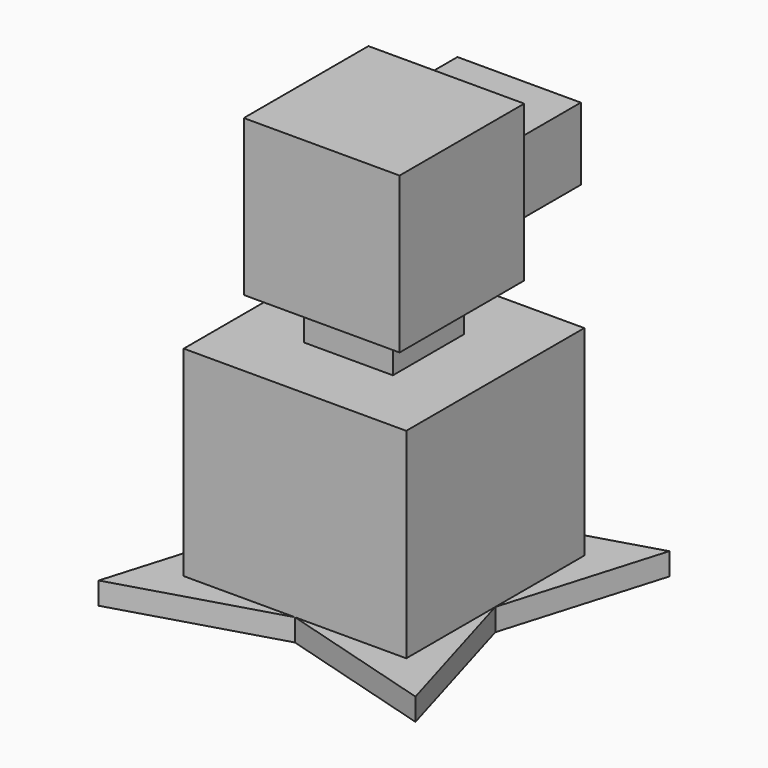
from build123d import *

# Parameters (mm, degrees)
F1_DEPTH = 50
F2_W     = 20
F2_H     = 20
F3_DEPTH = 10
F4_W     = 35
F4_H     = 35
F5_DEPTH = 35
F7_DEPTH = 5
F8_W     = 27.715054
F8_H     = 16.261809
F9_DEPTH = 25


with BuildPart() as f1:
    # F0 (on Top) → F1 (new body)
    with BuildSketch(Plane.XY):
        Polygon((-10.215054, 20.70647), (-35.215054, 20.70647), (-35.215054, -29.29353), (14.784946, -29.29353), (14.784946, 20.70647), (0, 20.70647), align=None)
    extrude(amount=F1_DEPTH)

    # F2 (on face) → F3 (join)
    with BuildSketch(Plane.XY.offset(50)):
        with Locations((-10.215054, -4.29353)):
            Rectangle(F2_W, F2_H)
    extrude(amount=F3_DEPTH)

    # F4 (on face) → F5 (join)
    with BuildSketch(Plane.XY.offset(60)):
        with Locations((-10.215054, -4.29353)):
            Rectangle(F4_W, F4_H)
    extrude(amount=F5_DEPTH)

    # F6 (on face) → F7 (join)
    with BuildSketch(Plane(origin=(0, 0, 0), x_dir=(1, 0, 0), z_dir=(0, 0, -1))):
        Polygon((-10.215054, 29.29353), (-45.821656, 39.900132), (-35.215054, 4.29353), (-45.570394, -31.061809), (-10.215054, -20.70647), (25.391547, -31.313071), (14.784946, 4.29353), (25.140285, 39.648869), align=None)
    extrude(amount=-F7_DEPTH)

    # F8 (on face) → F9 (join)
    with BuildSketch(Plane(origin=(0, 13.20647, 0), x_dir=(-1, 0, 0), z_dir=(0, 1, 0))):
        with Locations((13.857527, 74.543308)):
            Rectangle(F8_W, F8_H)
    extrude(amount=F9_DEPTH)


solid = f1.part
